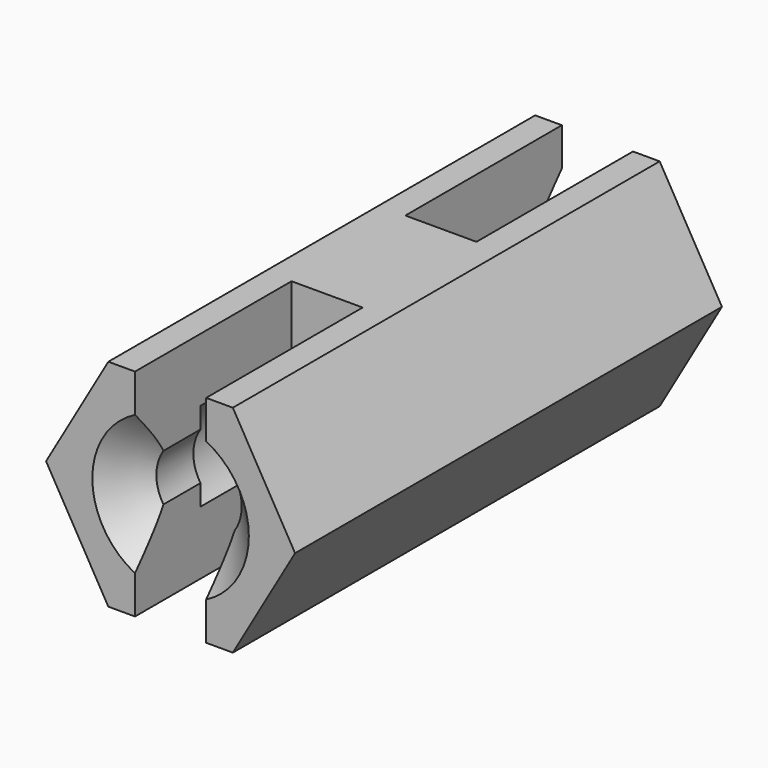
from build123d import *

# Parameters (mm, degrees)
PAD062_DEPTH      = 7.5
PAD062_DEPTH_BACK = 7.5
POCKET036_DEPTH   = 5.5
SKETCH086_R       = 1.6
POCKET037_DEPTH   = 3.2
CHAMFER007_SIZE   = 1


with BuildPart() as part:
    # Sketch084 → Pad062 (new body, two sides)
    with BuildSketch(Plane.XZ) as pad062_sk:
        Polygon((3.5, 0), (1.75, 3.031089), (-1.75, 3.031089), (-3.5, 0), (-1.75, -3.031089), (1.75, -3.031089), align=None)
    extrude(amount=-PAD062_DEPTH)
    extrude(pad062_sk.sketch, amount=PAD062_DEPTH_BACK)

    # Sketch085 (on Face7 of Pad062) → Pocket036 (cut)
    with BuildSketch(Plane(origin=(0, 7.5, 0), x_dir=(1, 0, 0), z_dir=(0, 1, 0))):
        with BuildLine():
            Line((-1, -3.25), (1, -3.25))
            Line((1, -0.663325), (1, -3.25))
            ThreePointArc((1, -0.663325), (1.2, 0), (1, 0.663325))
            Line((1, 3.25), (1, 0.663325))
            Line((1, 3.25), (-1, 3.25))
            Line((-1, 3.25), (-1, 0.663325))
            ThreePointArc((-1, 0.663325), (-1.2, 0), (-1, -0.663325))
            Line((-1, -3.25), (-1, -0.663325))
        make_face()
    pocket036 = extrude(amount=-POCKET036_DEPTH, mode=Mode.SUBTRACT)

    # Mirrored008: Pocket036 across XZ
    add(pocket036.mirror(Plane.XZ), mode=Mode.SUBTRACT)

    # Sketch086 (on Face8 of Mirrored008) → Pocket037 (cut)
    with BuildSketch(Plane(origin=(0, 2, 0), x_dir=(1, 0, 0), z_dir=(0, 1, 0))):
        Circle(SKETCH086_R)
    pocket037 = extrude(amount=POCKET037_DEPTH, mode=Mode.SUBTRACT)

    # Mirrored009: Pocket037 across XZ
    add(pocket037.mirror(Plane.XZ), mode=Mode.SUBTRACT)

    # Chamfer007
    chamfer007_edges = [part.edges().sort_by_distance(p)[0] for p in [
        (-1.2, 7.5, 0),
        (1.2, 7.5, 0),
        (1.2, -7.5, 0),
        (-1.2, -7.5, 0),
    ]]
    chamfer(chamfer007_edges, length=CHAMFER007_SIZE)


solid = part.part
